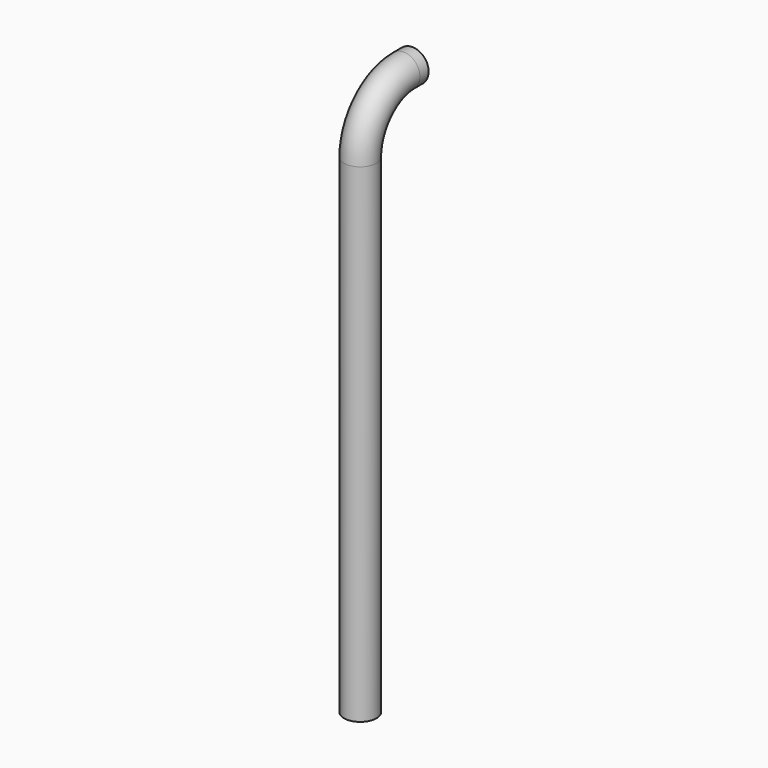
from build123d import *

# Parameters (mm, degrees)
F1_R   = 7.5
F1_R_2 = 6


with BuildPart() as f2:
    # F2: sweep along a path in F0
    with BuildLine(Plane.YZ) as f2_path:
        Line((0, 0), (-5, 0))
        ThreePointArc((-5, 0), (-22.67767, -7.32233), (-30, -25))
        Line((-30, -25), (-30, -250))
    # F1 (on Front) → F2 (sweep)
    with BuildSketch(Plane.XZ):
        Circle(F1_R)
        Circle(F1_R_2, mode=Mode.SUBTRACT)
    sweep(path=f2_path.line)


solid = f2.part
